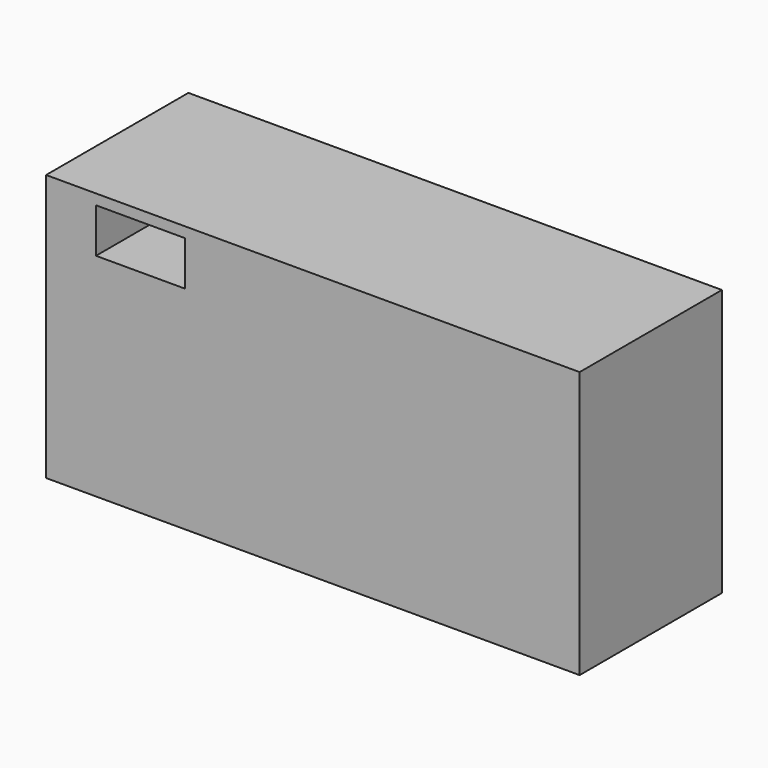
from build123d import *

# Parameters (mm, degrees)
F0_W     = 76.2
F0_H     = 38.1
F1_DEPTH = 25.4
F2_W     = 12.7
F2_H     = 6.35
F3_DEPTH = 36.83
F4_W     = 12.7
F4_H     = 6.35
F5_DEPTH = 101.854


with BuildPart() as f1:
    # F0 (on Front) → F1 (new body)
    with BuildSketch(Plane.XZ):
        Rectangle(F0_W, F0_H)
    extrude(amount=F1_DEPTH)

    # F2 (on Front) → F3 (cut)
    with BuildSketch(Plane.XZ):
        with Locations((-28.330677, 12.612414)):
            Rectangle(F2_W, F2_H)
    extrude(amount=-F3_DEPTH, mode=Mode.SUBTRACT)

    # F4 (on Front) → F5 (cut)
    with BuildSketch(Plane.XZ):
        with Locations((-24.622671, 14.386035)):
            Rectangle(F4_W, F4_H)
    extrude(amount=F5_DEPTH, mode=Mode.SUBTRACT)


solid = f1.part
